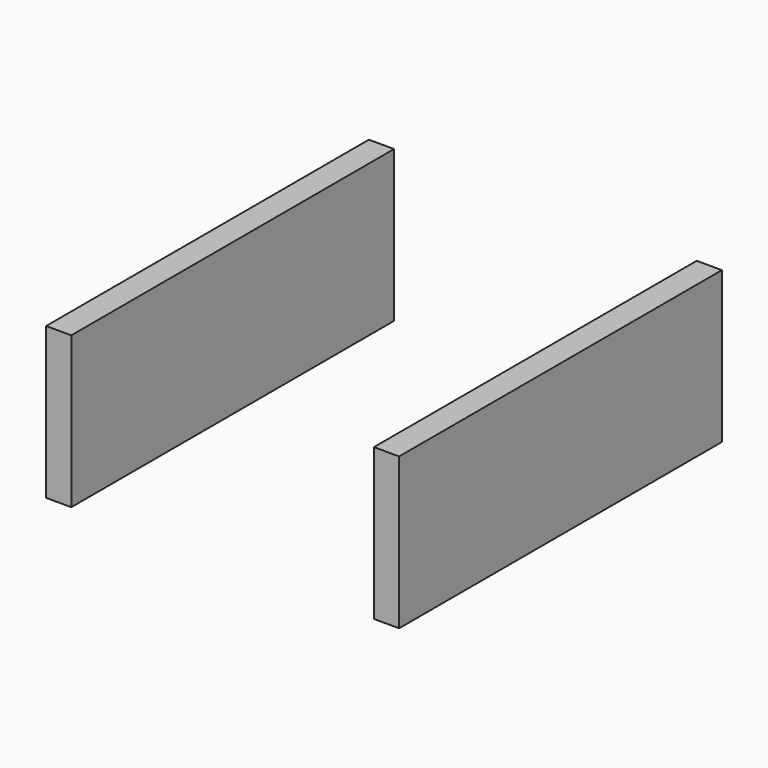
from build123d import *

# Parameters (mm, degrees)
F3_W     = 101.6
F3_H     = 38.1
F4_DEPTH = 6.35
F2_W     = 101.6
F2_H     = 38.1
F5_DEPTH = 6.35


with BuildPart() as f4:
    # F3 (on offset) → F4 (new body)
    with BuildSketch(Plane.YZ.offset(38.1)):
        Rectangle(F3_W, F3_H)
    extrude(amount=F4_DEPTH)


with BuildPart() as f5:
    # F2 (on offset) → F5 (new body)
    with BuildSketch(Plane.YZ.offset(-38.1)):
        Rectangle(F2_W, F2_H)
    extrude(amount=-F5_DEPTH)


solid = Compound([f4.part, f5.part])
